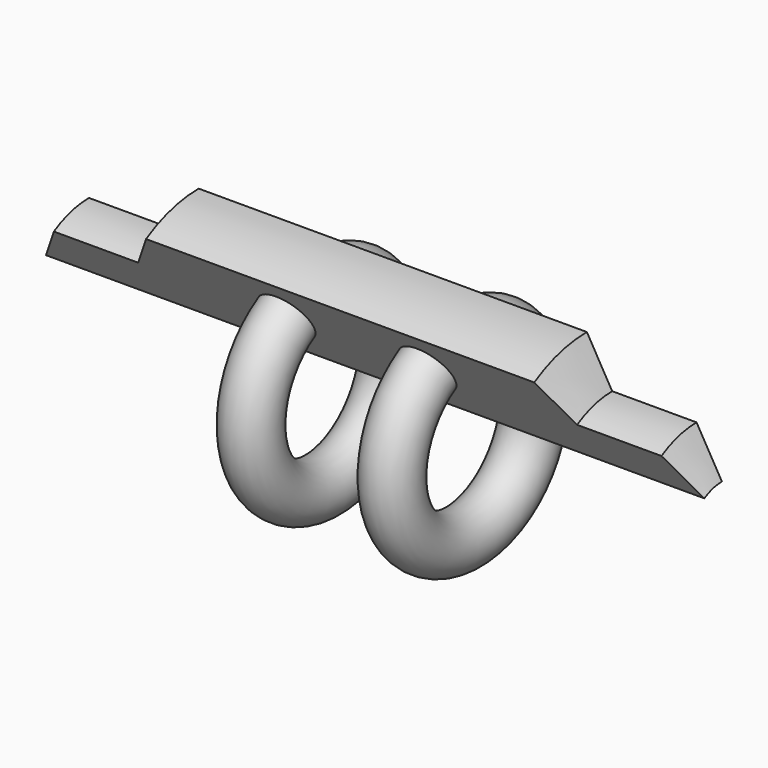
from build123d import *

# Parameters (mm, degrees)
F1_ANGLE = 30
F2_R     = 6.118823


with BuildPart() as f1:
    # F0 (on Front) → F1 (revolve)
    with BuildSketch(Plane.XZ):
        Polygon((-5.773503, 30), (-50, 30), (-50, 10), (25, 10), (19.226497, 20), (0, 20), align=None)
    revolve(axis=Axis((-12.5, 0, 0), (1, 0, 0)), revolution_arc=F1_ANGLE)

    # F2 (on face) → F3 (revolve)
    with BuildSketch(Plane(origin=(0, 0, 0), x_dir=(1, 0, 0), z_dir=(0, -0.866025, -0.5))):
        with Locations((-33.949997, 20.300001)):
            Circle(F2_R)
    revolve(axis=Axis((5.200002, 0, 0), (-1, 0, 0)))

    # F4: F1 across face


with BuildPart() as f1_1:
    add(f1.part)
    add(f1.part.mirror(Plane(origin=(-50, -5.543907, 20.690143), x_dir=(0, -1, 0), z_dir=(-1, 0, 0))))


solid = f1_1.part
